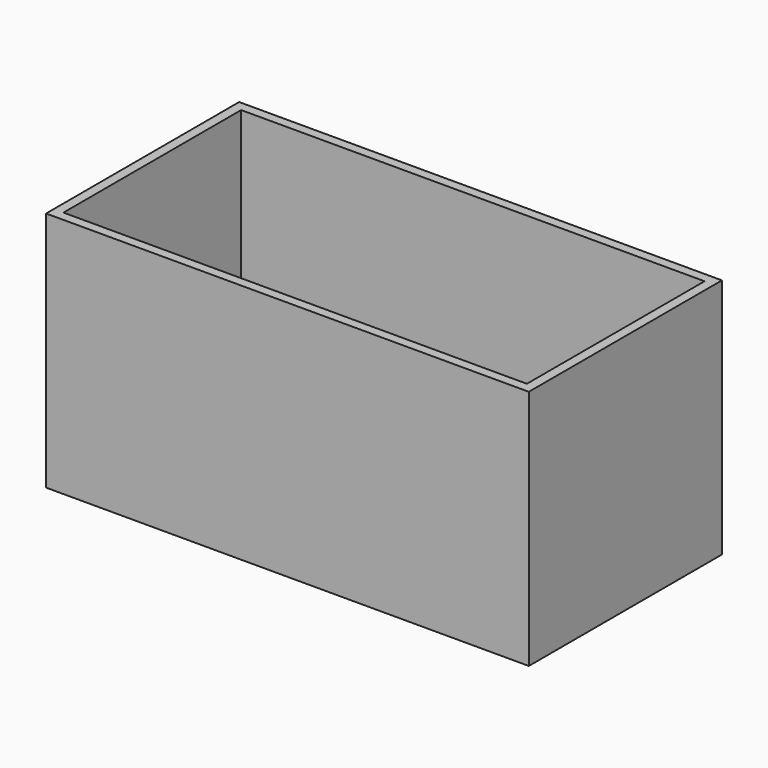
from build123d import *

# Parameters (mm, degrees)
F0_W     = 500
F0_H     = 250
F1_DEPTH = 250
F2_W     = 480
F2_H     = 230
F3_DEPTH = 240


with BuildPart() as f1:
    # F0 (on Top) → F1 (new body)
    with BuildSketch(Plane.XY):
        with Locations((250, 125)):
            Rectangle(F0_W, F0_H)
    extrude(amount=-F1_DEPTH)

    # F2 (on Top) → F3 (cut)
    with BuildSketch(Plane.XY):
        with Locations((250, 125)):
            Rectangle(F2_W, F2_H)
    extrude(amount=-F3_DEPTH, mode=Mode.SUBTRACT)


solid = f1.part
